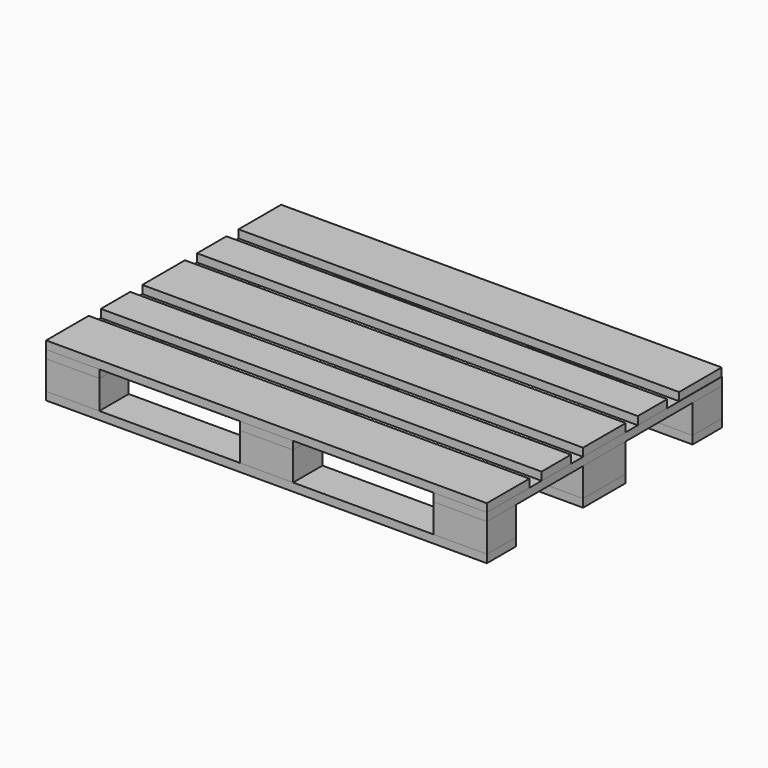
from build123d import *

# Parameters (mm, degrees)
F0_W     = 1200
F0_H     = 100
F0_W_2   = 145
F0_H_2   = 145
F1_DEPTH = 22
F2_W     = 145
F2_H     = 100
F2_H_2   = 145
F3_DEPTH = 78
F4_W     = 145
F4_H     = 800
F5_DEPTH = 22
F6_W     = 1200
F6_H     = 145
F6_W_2   = 1199.380994
F6_H_2   = 100
F7_DEPTH = 22


with BuildPart() as f1:
    # F0 (on Top) → F1 (new body)
    with BuildSketch(Plane.XY):
        with Locations((600, 750)):
            Rectangle(F0_W, F0_H)
        with Locations((600, 50)):
            Rectangle(F0_W, F0_H)
        with Locations((72.5, 400)):
            Rectangle(F0_W_2, F0_H_2)
        with Locations((1127.5, 400)):
            Rectangle(F0_W_2, F0_H_2)
    extrude(amount=F1_DEPTH)


with BuildPart() as f3:
    # F2 (on face) → F3 (new body)
    with BuildSketch(Plane.XY.offset(22)):
        with Locations((72.5, 750)):
            Rectangle(F2_W, F2_H)
        with Locations((1127.5, 750)):
            Rectangle(F2_W, F2_H)
        with Locations((1127.5, 400)):
            Rectangle(F2_W, F2_H_2)
        with Locations((72.5, 400)):
            Rectangle(F2_W, F2_H_2)
        with Locations((72.5, 50)):
            Rectangle(F2_W, F2_H)
        with Locations((1127.5, 50)):
            Rectangle(F2_W, F2_H)
        with Locations((600, 750)):
            Rectangle(F2_W, F2_H)
        with Locations((600, 50)):
            Rectangle(F2_W, F2_H)
    extrude(amount=F3_DEPTH)


with BuildPart() as f5:
    # F4 (on face) → F5 (new body)
    with BuildSketch(Plane.XY.offset(100)):
        with Locations((72.5, 400)):
            Rectangle(F4_W, F4_H)
        with Locations((600, 400)):
            Rectangle(F4_W, F4_H)
        with Locations((1127.5, 400)):
            Rectangle(F4_W, F4_H)
    extrude(amount=F5_DEPTH)


with BuildPart() as f7:
    # F6 (on face) → F7 (new body)
    with BuildSketch(Plane.XY.offset(122)):
        with Locations((600, 72.5)):
            Rectangle(F6_W, F6_H)
        with Locations((599.690497, 727.5)):
            Rectangle(F6_W_2, F6_H)
        with Locations((600, 563.75)):
            Rectangle(F6_W, F6_H_2)
        with Locations((600, 400)):
            Rectangle(F6_W, F6_H)
        with Locations((600, 236.25)):
            Rectangle(F6_W, F6_H_2)
    extrude(amount=F7_DEPTH)


solid = Compound([f1.part, f3.part, f5.part, f7.part])
